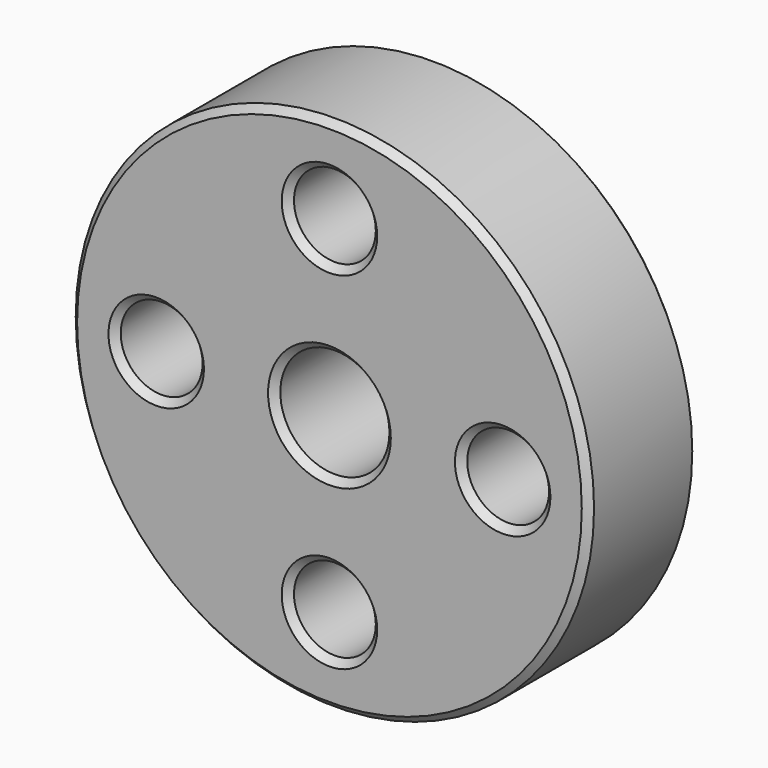
from build123d import *

# Parameters (mm, degrees)
F0_R     = 9.5
F0_R_2   = 1.5
F0_R_3   = 2
F1_DEPTH = 5
F2_SIZE  = 0.25


with BuildPart() as f1:
    # F0 (on Front) → F1 (new body)
    with BuildSketch(Plane.XZ):
        Circle(F0_R)
        with Locations((0, -6.35)):
            Circle(F0_R_2, mode=Mode.SUBTRACT)
        with Locations((-6.35, 0)):
            Circle(F0_R_2, mode=Mode.SUBTRACT)
        Circle(F0_R_3, mode=Mode.SUBTRACT)
        with Locations((6.35, 0)):
            Circle(F0_R_2, mode=Mode.SUBTRACT)
        with Locations((0, 6.35)):
            Circle(F0_R_2, mode=Mode.SUBTRACT)
    extrude(amount=F1_DEPTH)

    # F2
    f2_edges = [f1.edges().sort_by_distance(p)[0] for p in [
        (-9.5, -5, 0),
        (-9.5, 0, 0),
        (-7.85, -5, 0),
        (-1.5, -5, 6.35),
        (-2, -5, 0),
        (-1.5, -5, -6.35),
        (4.85, -5, 0),
        (4.85, 0, 0),
        (-2, 0, 0),
        (-1.5, 0, 6.35),
        (-7.85, 0, 0),
        (-1.5, 0, -6.35),
    ]]
    chamfer(f2_edges, length=F2_SIZE)


solid = f1.part
